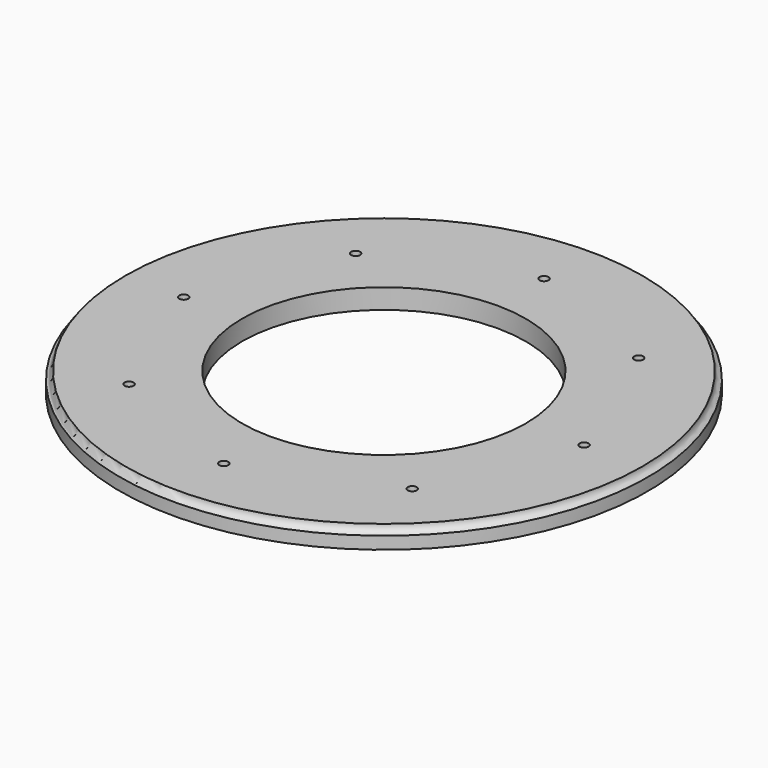
from build123d import *

# Parameters (mm, degrees)
SKETCH003_R   = 1.35
EXTRUDE_DEPTH = 30


with BuildPart() as hole_cut:
    # Sketch003 → Extrude (new body, symmetric)
    with BuildSketch(Plane.XY):
        with Locations((42.497118, 42.497118)):
            Circle(SKETCH003_R)
        with Locations((0, 60.1)):
            Circle(SKETCH003_R)
        with Locations((-42.497118, 42.497118)):
            Circle(SKETCH003_R)
        with Locations((-60.1, 0)):
            Circle(SKETCH003_R)
        with Locations((-42.497118, -42.497118)):
            Circle(SKETCH003_R)
        with Locations((0, -60.1)):
            Circle(SKETCH003_R)
        with Locations((42.497118, -42.497118)):
            Circle(SKETCH003_R)
        with Locations((60.1, 0)):
            Circle(SKETCH003_R)
    extrude(amount=EXTRUDE_DEPTH, both=True)


with BuildPart() as bearing_inner_race_lower:
    # Sketch001 → Revolve002 (revolve)
    with BuildSketch(Plane.XZ):
        with BuildLine():
            ThreePointArc((-79.25, -2.279803), (-78.055778, -1.407125), (-77.6, 0))
            Line((-77.6, 0), (-42.6, 0))
            Line((-42.6, 0), (-42.6, -6))
            Line((-42.6, -6), (-79.25, -6))
            Line((-79.25, -6), (-79.25, -2.279803))
        make_face()
    revolve(axis=Axis((0, 0, 0), (0, 0, 1)))

    # Cut001: cut hole cut
    add(hole_cut.part, mode=Mode.SUBTRACT)


solid = bearing_inner_race_lower.part
